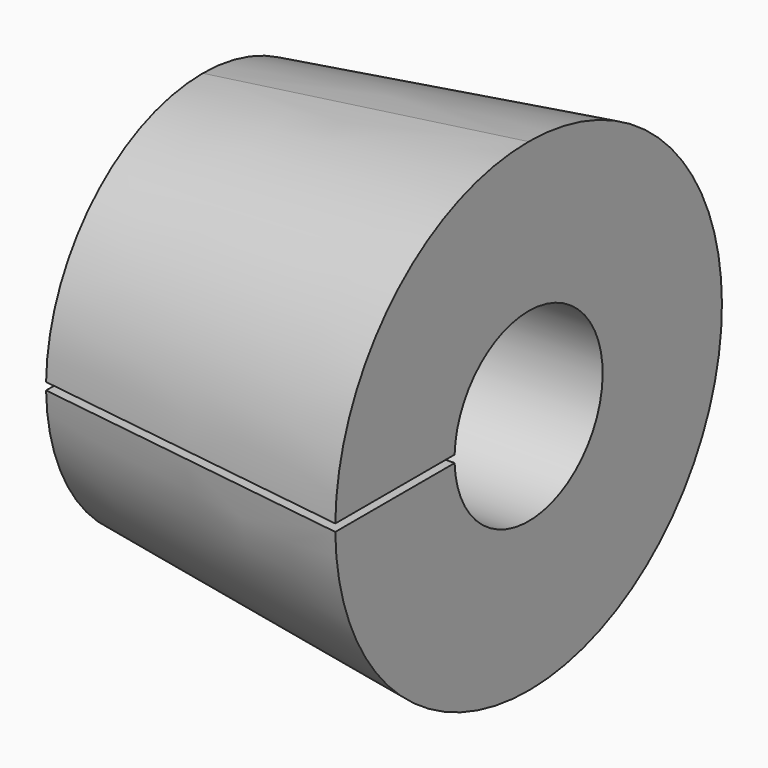
from build123d import *

# Parameters (mm, degrees)
F3_DEPTH = 22.353
F4_D     = 2.2606
F4_DEPTH = 9.652
F4_TIP   = 0.6791527577


with BuildPart() as f1:
    # F0 (on Front) → F1 (revolve)
    with BuildSketch(Plane.XZ):
        Polygon((-18.8786415076, 13.7577650476), (-41.2306415076, 10.6163963103), (-41.2306415076, 3.5297963103), (-18.8786415076, 3.5297963103), align=None)
    revolve(axis=Axis((-30.0546415076, 0, -2.8202036897), (1, 0, 0)))

    # F2 (on face) → F3 (cut, through all)
    with BuildSketch(Plane(origin=(-41.2306415076, 0, 0), x_dir=(0, -1, 0), z_dir=(-1, 0, 0))):
        with BuildLine():
            Line((13.4341990293, -2.5662036897), (6.3449179664, -2.5662036897))
            ThreePointArc((6.3449179664, -2.5662036897), (6.3487293645, -2.6931782719), (6.35, -2.8202036897))
            ThreePointArc((6.35, -2.8202036897), (6.3487293645, -2.9472291075), (6.3449179664, -3.0742036897))
            Line((6.3449179664, -3.0742036897), (13.4341990293, -3.0742036897))
            ThreePointArc((13.4341990293, -3.0742036897), (13.4359997439, -2.9472093634), (13.4366, -2.8202036897))
            ThreePointArc((13.4366, -2.8202036897), (13.4359997439, -2.6931980159), (13.4341990293, -2.5662036897))
        make_face()
        with BuildLine():
            Line((16.5760227876, -2.5662036897), (13.4341990293, -2.5662036897))
            ThreePointArc((13.4341990293, -2.5662036897), (13.4359997439, -2.6931980159), (13.4366, -2.8202036897))
            ThreePointArc((13.4366, -2.8202036897), (13.4359997439, -2.9472093634), (13.4341990293, -3.0742036897))
            Line((13.4341990293, -3.0742036897), (16.5760227876, -3.0742036897))
            ThreePointArc((16.5760227876, -3.0742036897), (16.5774822427, -2.9472074167), (16.5779687373, -2.8202036897))
            ThreePointArc((16.5779687373, -2.8202036897), (16.5774822427, -2.6931999627), (16.5760227876, -2.5662036897))
        make_face()
    extrude(amount=-F3_DEPTH, mode=Mode.SUBTRACT)

    # F4
    with Locations(Plane(origin=(-41.2306415076, 0, 0), x_dir=(0, -1, 0), z_dir=(-1, 0, 0))):
        with Locations((-7.7230202641, 4.9028165744), (7.7230202641, 4.9028165744), (7.7230202641, -10.5432239538), (-7.7230202641, -10.5432239538)):
            Hole(F4_D / 2, depth=F4_DEPTH)
            with Locations((0, 0, -(F4_DEPTH + F4_TIP / 2))):  # 118° drill point
                Cone(0, F4_D / 2, F4_TIP, mode=Mode.SUBTRACT)


solid = f1.part
